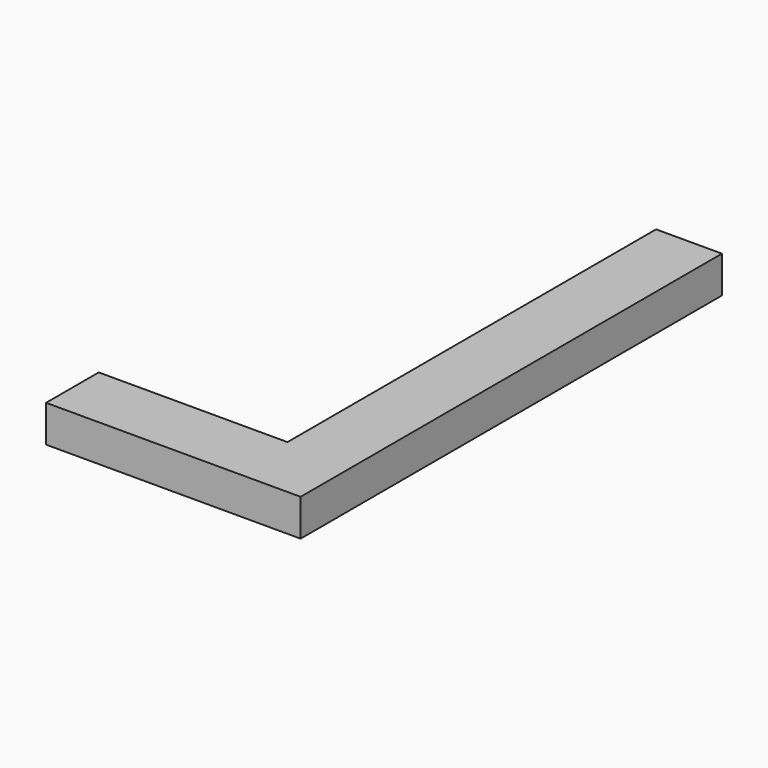
from build123d import *

# Parameters (mm, degrees)
F0_W     = 21.5
F0_H     = 7.5
F0_W_2   = 7.5
F0_H_2   = 52.5
F1_DEPTH = 4.2


with BuildPart() as f1:
    # F0 (on Top) → F1 (new body)
    with BuildSketch(Plane.XY):
        with Locations((-3.75, 0)):
            Rectangle(F0_W, F0_H)
        with Locations((10.75, 0)):
            Rectangle(F0_W_2, F0_H)
        with Locations((10.75, 30)):
            Rectangle(F0_W_2, F0_H_2)
    extrude(amount=F1_DEPTH)


solid = f1.part
